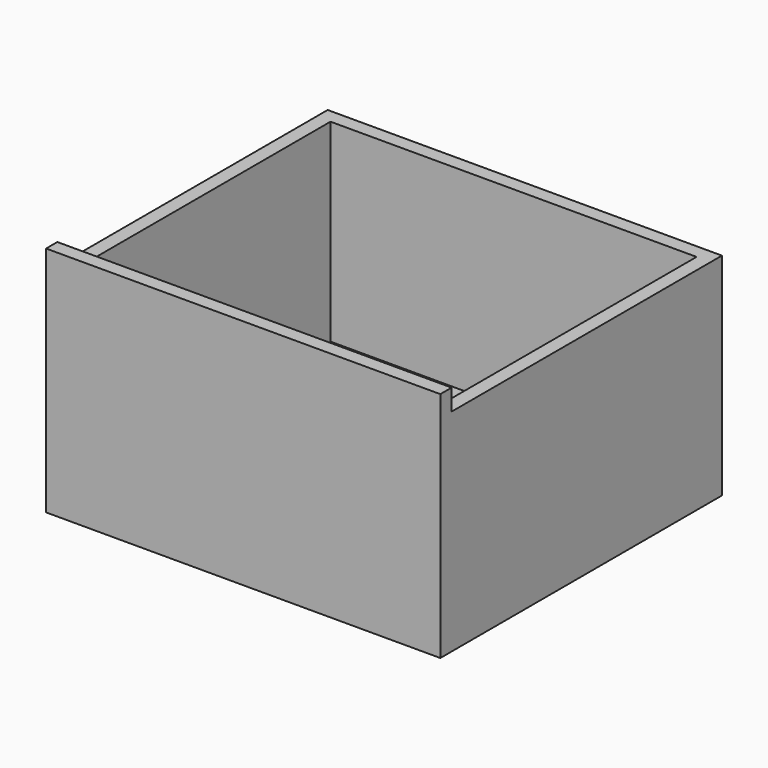
from build123d import *

# Parameters (mm, degrees)
F0_W     = 20
F0_H     = 460
F0_H_2   = 20
F0_W_2   = 520
F1_DEPTH = 300
F2_DEPTH = 330
F3_DEPTH = 25


with BuildPart() as f1:
    # F0 (on Top) → F1 (new body)
    with BuildSketch(Plane.XY):
        with Locations((-270, 0)):
            Rectangle(F0_W, F0_H)
        with Locations((-270, 240)):
            Rectangle(F0_W, F0_H_2)
        with Locations((0, 240)):
            Rectangle(F0_W_2, F0_H_2)
        with Locations((270, 240)):
            Rectangle(F0_W, F0_H_2)
        with Locations((270, 0)):
            Rectangle(F0_W, F0_H)
    extrude(amount=F1_DEPTH)

    # F0 (on Top) → F2 (join)
    with BuildSketch(Plane.XY):
        with Locations((270, -240)):
            Rectangle(F0_W, F0_H_2)
        with Locations((0, -240)):
            Rectangle(F0_W_2, F0_H_2)
        with Locations((-270, -240)):
            Rectangle(F0_W, F0_H_2)
    extrude(amount=F2_DEPTH)

    # F0 (on Top) → F3 (join)
    with BuildSketch(Plane.XY):
        Rectangle(F0_W_2, F0_H)
    extrude(amount=F3_DEPTH)


solid = f1.part
